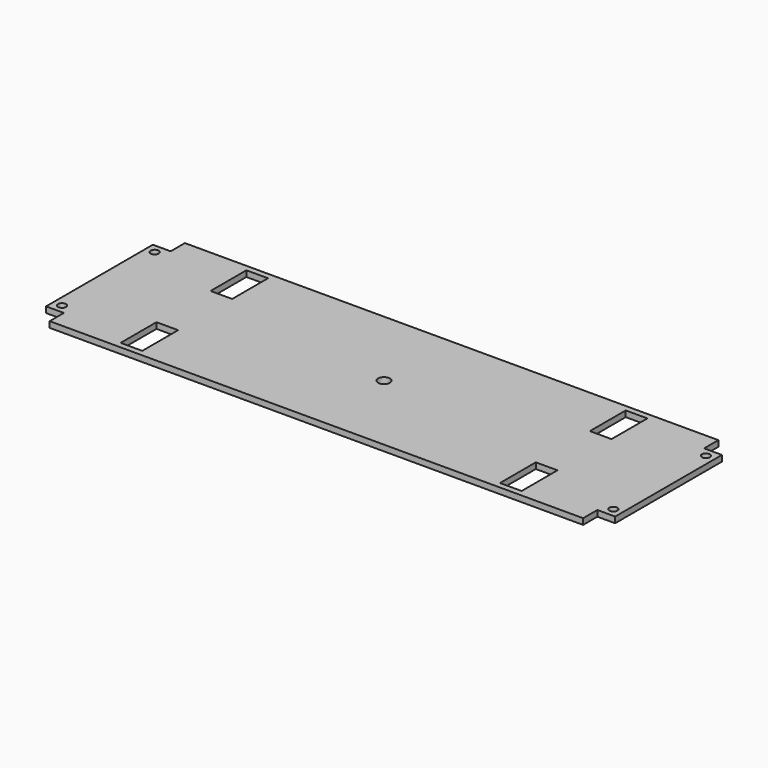
from build123d import *

# Parameters (mm, degrees)
F0_W     = 304.8
F0_H     = 90.5500094
F0_W_2   = 11.5876832
F0_H_2   = 24
F0_R     = 3.175
F1_DEPTH = 3.175
F2_R     = 2.15265
F3_DEPTH = 3.175
F4_W     = 9.525
F4_H     = 9.525
F5_DEPTH = 3.175


with BuildPart() as f1:
    # F0 (on Top) → F1 (new body)
    with BuildSketch(Plane.XY):
        with Locations((152.4, -45.2750047)):
            Rectangle(F0_W, F0_H)
        with Locations((50.8, -75.3750094)):
            Rectangle(F0_W_2, F0_H_2, mode=Mode.SUBTRACT)
        with Locations((254, -75.3750094)):
            Rectangle(F0_W_2, F0_H_2, mode=Mode.SUBTRACT)
        with Locations((50.8, -15.175)):
            Rectangle(F0_W_2, F0_H_2, mode=Mode.SUBTRACT)
        with Locations((152.4, -45.2750047)):
            Circle(F0_R, mode=Mode.SUBTRACT)
        with Locations((254, -15.175)):
            Rectangle(F0_W_2, F0_H_2, mode=Mode.SUBTRACT)
    extrude(amount=F1_DEPTH)

    # F2 (on face) → F3 (cut, through all)
    with BuildSketch(Plane.XY.offset(3.175)):
        with Locations((4.7625, -14.2875)):
            Circle(F2_R)
        with Locations((4.7625, -76.2625094)):
            Circle(F2_R)
        with Locations((300.0375, -76.2625094)):
            Circle(F2_R)
        with Locations((300.0375, -14.2875)):
            Circle(F2_R)
    extrude(amount=-F3_DEPTH, mode=Mode.SUBTRACT)

    # F4 (on face) → F5 (cut, through all)
    with BuildSketch(Plane.XY.offset(3.175)):
        with Locations((300.0375, -4.7625)):
            Rectangle(F4_W, F4_H)
        with Locations((300.0375, -85.7875094)):
            Rectangle(F4_W, F4_H)
        with Locations((4.7625, -85.7875094)):
            Rectangle(F4_W, F4_H)
        with Locations((4.7625, -4.7625)):
            Rectangle(F4_W, F4_H)
    extrude(amount=-F5_DEPTH, mode=Mode.SUBTRACT)


solid = f1.part
